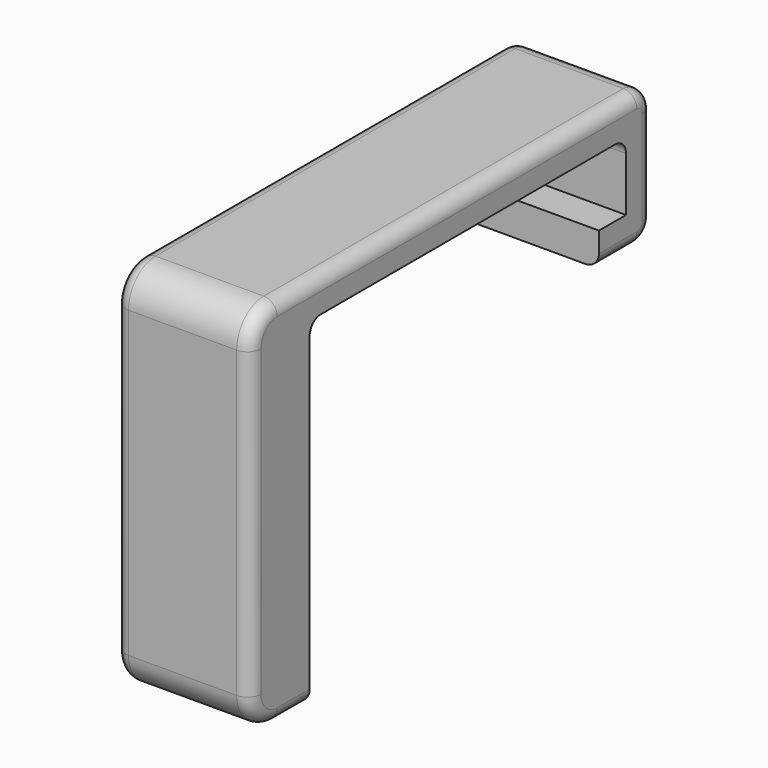
from build123d import *

# Parameters (mm, degrees)
F1_DEPTH = 20
F2_R     = 3
F3_R     = 2
F4_R     = 5
F6_D     = 2.8
F6_DEPTH = 10
F6_TIP   = 0.8412048666
F7_R     = 2


with BuildPart() as f1:
    # F0 (on Right) → F1 (new body)
    with BuildSketch(Plane.YZ):
        Polygon((11.7727210118, 5), (11.7727210118, 0), (21.7727210118, 0), (21.7727210118, 20), (-52.7272789882, 20), (-52.7272789882, -34.9435843527), (-41.7272789882, -35), (-41.7272789882, 15), (16.7727210118, 15), (16.7727210118, 5), align=None)
    extrude(amount=F1_DEPTH)

    # F2
    f2_edges = [f1.edges().sort_by_distance(p)[0] for p in [
        (10, 21.772721, 20),
        (10, 21.772721, 0),
    ]]
    fillet(f2_edges, radius=F2_R)

    # F3
    f3_edges = [f1.edges().sort_by_distance(p)[0] for p in [
        (10, -41.727279, 15),
        (10, 16.772721, 15),
    ]]
    fillet(f3_edges, radius=F3_R)

    # F4
    f4_edges = [f1.edges().sort_by_distance(p)[0] for p in [
        (10, -52.727279, -34.943584),
        (10, -52.727279, 20),
    ]]
    fillet(f4_edges, radius=F4_R)

    # F6
    with Locations(Plane(origin=(0, -41.7272789882, 0), x_dir=(-1, 0, 0), z_dir=(0, 1, 0))):
        with Locations((-10, -28), (-10, -10)):
            Hole(F6_D / 2, depth=F6_DEPTH)
            with Locations((0, 0, -(F6_DEPTH + F6_TIP / 2))):  # 118° drill point
                Cone(0, F6_D / 2, F6_TIP, mode=Mode.SUBTRACT)

    # F7
    f7_edges = [f1.edges().sort_by_distance(p)[0] for p in [
        (0, -52.727279, -7.484581),
        (20, -14.477279, 20),
    ]]
    fillet(f7_edges, radius=F7_R)


solid = f1.part
